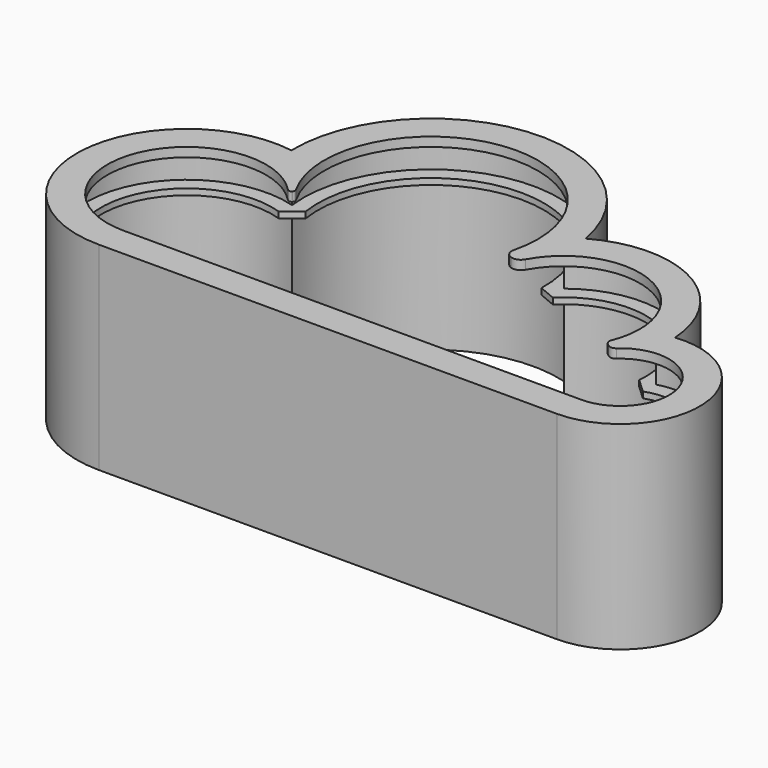
from build123d import *

# Parameters (mm, degrees)
PAD016_DEPTH = 50
PAD017_DEPTH = 2
PAD018_DEPTH = 10
PAD019_DEPTH = 3
FILLET_R     = 1
FILLET001_R  = 3
FILLET002_R  = 2


with BuildPart() as part:
    # Sketch024 → Pad016 (new body)
    with BuildSketch(Plane.XY):
        with BuildLine():
            Line((0, 0), (150, 0))
            ThreePointArc((150, 0), (175.963449, 27.378164), (147.247546, 51.853897))
            ThreePointArc((147.247546, 51.853897), (129.103193, 80.569725), (95.135939, 80.364888))
            ThreePointArc((95.135939, 80.364888), (46.395903, 117.272917), (5.84043, 71.523082))
            ThreePointArc((5.84043, 71.523082), (-35.880572, 38.929935), (0, 0))
        make_face()
        with BuildLine():
            ThreePointArc((92.566341, 74.797944), (47.150665, 114.129661), (9.33601, 67.443265))
            ThreePointArc((9.33601, 67.443265), (-32.459044, 40.717039), (0, 3.2))
            Line((0, 3.2), (150, 3.2))
            ThreePointArc((150, 3.2), (172.60162, 29.001128), (144.049968, 48.009932))
            ThreePointArc((144.049968, 48.009932), (126.982256, 78.074612), (92.566341, 74.797944))
        make_face(mode=Mode.SUBTRACT)
    extrude(amount=PAD016_DEPTH)

    # Sketch025 (on Face12 of Pad016) → Pad017 (join)
    with BuildSketch(Plane.XY.offset(50)):
        with BuildLine():
            Line((0, 0), (150, 0))
            ThreePointArc((150, 0), (175.963449, 27.378164), (147.247546, 51.853897))
            ThreePointArc((147.247546, 51.853897), (129.103193, 80.569725), (95.135939, 80.364888))
            ThreePointArc((95.135939, 80.364888), (46.395903, 117.272917), (5.84043, 71.523082))
            ThreePointArc((5.84043, 71.523082), (-35.880572, 38.929935), (0, 0))
        make_face()
        with BuildLine():
            ThreePointArc((87.815114, 71.442447), (48.520032, 109.41973), (14.263984, 66.841559))
            Line((8.892558, 62.550375), (14.263984, 66.841559))
            ThreePointArc((8.892558, 62.550375), (-27.635218, 40.504969), (0, 8))
            Line((0, 8), (150, 8))
            ThreePointArc((150, 8), (167.729763, 29.107329), (143.878644, 42.927168))
            Line((139.179868, 47.277594), (143.878644, 42.927168))
            ThreePointArc((139.179868, 47.277594), (123.936648, 74.230459), (93.393809, 69.136577))
            Line((87.815114, 71.442447), (93.393809, 69.136577))
        make_face(mode=Mode.SUBTRACT)
    extrude(amount=PAD017_DEPTH)

    # Sketch026 (on Face15 of Pad017) → Pad018 (join)
    with BuildSketch(Plane.XY.offset(52)):
        with BuildLine():
            Line((0, 0), (150, 0))
            ThreePointArc((150, 0), (175.963449, 27.378164), (147.247546, 51.853897))
            ThreePointArc((147.247546, 51.853897), (129.103193, 80.569725), (95.135939, 80.364888))
            ThreePointArc((95.135939, 80.364888), (46.395903, 117.272917), (5.84043, 71.523082))
            ThreePointArc((5.84043, 71.523082), (-35.880572, 38.929935), (0, 0))
        make_face()
        with BuildLine():
            ThreePointArc((92.566341, 74.797944), (47.150665, 114.129661), (9.33601, 67.443265))
            ThreePointArc((9.33601, 67.443265), (-32.459044, 40.717039), (0, 3.2))
            Line((0, 3.2), (150, 3.2))
            ThreePointArc((150, 3.2), (172.60162, 29.001128), (144.049968, 48.009932))
            ThreePointArc((144.049968, 48.009932), (126.982256, 78.074612), (92.566341, 74.797944))
        make_face(mode=Mode.SUBTRACT)
    extrude(amount=PAD018_DEPTH)

    # Sketch027 (on Face21 of Pad018) → Pad019 (join)
    with BuildSketch(Plane.XY.offset(62)):
        with BuildLine():
            Line((0, 0), (150, 0))
            ThreePointArc((150, 0), (175.963449, 27.378164), (147.247546, 51.853897))
            ThreePointArc((147.247546, 51.853897), (129.103193, 80.569725), (95.135939, 80.364888))
            ThreePointArc((95.135939, 80.364888), (46.395903, 117.272917), (5.84043, 71.523082))
            ThreePointArc((5.84043, 71.523082), (-35.880572, 38.929935), (0, 0))
        make_face()
        with BuildLine():
            ThreePointArc((84.015068, 61.367554), (47.028893, 107.28489), (20.829728, 54.464603))
            Line((19.480393, 53.219591), (20.829728, 54.464603))
            ThreePointArc((19.480393, 53.219591), (-23.703474, 46.683881), (0, 10))
            Line((0, 10), (150, 10))
            ThreePointArc((150, 10), (164.62434, 32.490661), (138.134796, 36.733915))
            Line((134.91887, 39.207776), (138.134796, 36.733915))
            ThreePointArc((134.91887, 39.207776), (122.444141, 72.716079), (89.228181, 59.48259))
            Line((84.015068, 61.367554), (89.228181, 59.48259))
        make_face(mode=Mode.SUBTRACT)
    extrude(amount=PAD019_DEPTH)

    # Fillet
    fillet_edges = [part.edges().sort_by_distance(p)[0] for p in [
        (20.829728, 54.464603, 63.5),
        (19.480393, 53.219591, 63.5),
    ]]
    fillet(fillet_edges, radius=FILLET_R)

    # Fillet001
    fillet001_edges = [part.edges().sort_by_distance(p)[0] for p in [
        (89.228181, 59.48259, 63.5),
        (84.015068, 61.367554, 63.5),
    ]]
    fillet(fillet001_edges, radius=FILLET001_R)

    # Fillet002
    fillet002_edges = [part.edges().sort_by_distance(p)[0] for p in [
        (138.134796, 36.733915, 63.5),
        (134.91887, 39.207776, 63.5),
    ]]
    fillet(fillet002_edges, radius=FILLET002_R)


with BuildPart() as part_1:
    # Body004 placement: moved
    add(part.part.moved(Location((-11.904526, 86.281793, 0))))


solid = part_1.part
